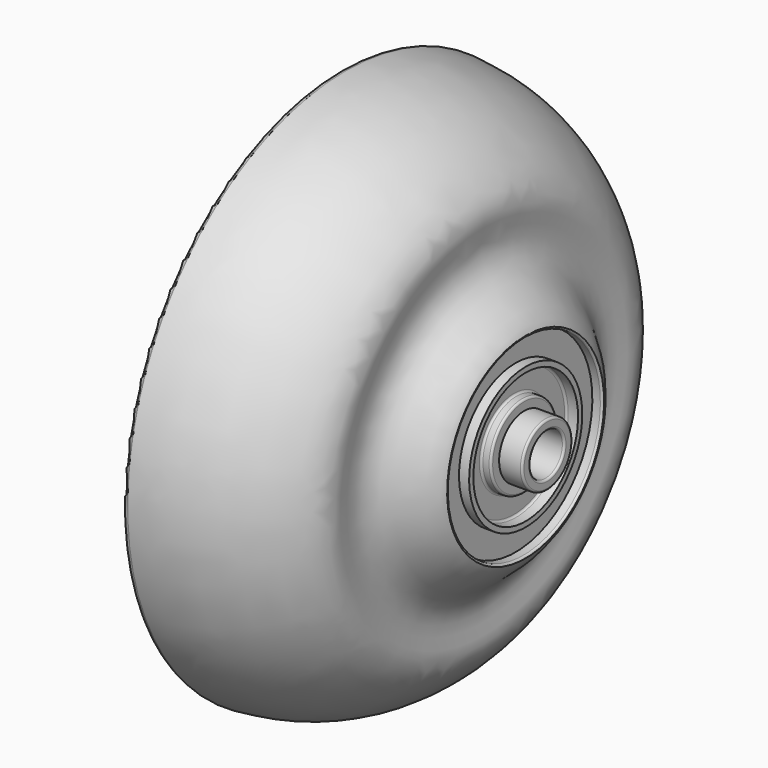
from build123d import *


with BuildPart() as f1:
    # F0 (on Front) → F1 (revolve)
    with BuildSketch(Plane.XZ):
        with BuildLine():
            ThreePointArc((103.2552067209, -7.3173598393), (103.3966280772, -7.2587811955), (103.4552067209, -7.1173598393))
            Line((103.4552067209, -7.1173598393), (103.4552067209, -6.5173598393))
            ThreePointArc((103.4552067209, -6.5173598393), (103.3966280772, -6.3759384831), (103.2552067209, -6.3173598393))
            Line((103.2552067209, -6.3173598393), (101.1552067209, -6.3173598393))
            Line((101.1552067209, -6.3173598393), (101.1552067209, -5.5173598393))
            ThreePointArc((101.1552067209, -5.5173598393), (101.0966280772, -5.3759384831), (100.9552067209, -5.3173598393))
            Line((100.9552067209, -5.3173598393), (100.3552067209, -5.3173598393))
            ThreePointArc((100.3552067209, -5.3173598393), (100.2137853647, -5.2587811955), (100.1552067209, -5.1173598393))
            Line((100.1552067209, -5.1173598393), (100.1552067209, -3.1639273529))
            ThreePointArc((100.1552067209, -3.1639273529), (100.2118270722, -3.0244917895), (100.3496294843, -2.9640051319))
            Line((100.3496294843, -2.9640051319), (101.3047594914, -2.9373598393))
            Line((101.3047594914, -2.9373598393), (101.3047594914, -2.4173411505))
            Line((101.3047594914, -2.4173411505), (100.3047594914, -2.4173411505))
            Line((100.3047594914, -2.4173411505), (100.3047594914, 0.0826588495))
            Line((100.3047594914, 0.0826588495), (101.0992726788, 0.0831378613))
            ThreePointArc((101.0992726788, 0.0831378613), (101.2445709399, 0.1458302845), (101.2988300096, 0.2944838347))
            add(Edge.make_bspline(
                [(83.4923827, 17.5595440168), (85.954855152, 17.4198632066), (91.6842036726, 16.1959388617), (97.957327511, 10.3243153654), (96.6904926733, 7.0134015088), (97.1923326743, 3.6846783615), (100.7422979039, 1.7501764035), (101.2988300096, 0.2944838347)],
                knots=[0.0173340735, 0.0173340735, 0.0173340735, 0.0173340735, 0.2569346066, 0.5009775979, 0.650636206, 0.8017235238, 1, 1, 1, 1], degree=3))
            ThreePointArc((83.4923827, 17.5595440168), (83.120670183, 17.423773357), (82.9640663156, 17.0603464784))
            Line((82.9640663156, 17.0603464784), (82.9640663156, 14.1563601457))
            ThreePointArc((82.9640663156, 14.1563601457), (83.1411452754, 13.7746246328), (83.5469543227, 13.6632784301))
            add(Edge.make_bspline(
                [(83.5469543227, 13.6632784301), (85.3538789664, 13.96702602), (90.1603272559, 15.8552005221), (92.5317897399, 8.5083365003), (94.4865643978, 4.5935157686)],
                knots=[0.0411554181, 0.0411554181, 0.0411554181, 0.0411554181, 0.4212409927, 1, 1, 1, 1], degree=3))
            Line((94.4865643978, 4.5935157686), (96.6222287334, -2.7730307867))
            ThreePointArc((96.6222287334, -2.7730307867), (96.6941897354, -2.8772441324), (96.8143189841, -2.9173411505))
            Line((96.8143189841, -2.9173411505), (97.4640663156, -2.9173411505))
            ThreePointArc((97.4640663156, -2.9173411505), (97.6054876718, -2.9759197943), (97.6640663156, -3.1173411505))
            Line((97.6640663156, -3.1173411505), (97.6640663156, -9.4173411505))
            Line((97.6640663156, -9.4173411505), (98.9640663156, -9.4173411505))
            Line((98.9640663156, -9.4173411505), (98.9640663156, -7.3173598393))
            Line((98.9640663156, -7.3173598393), (103.2552067209, -7.3173598393))
        make_face()
    revolve(axis=Axis((93.2140663156, 0, -9.4173411505), (-1, 0, 0)))


solid = f1.part
